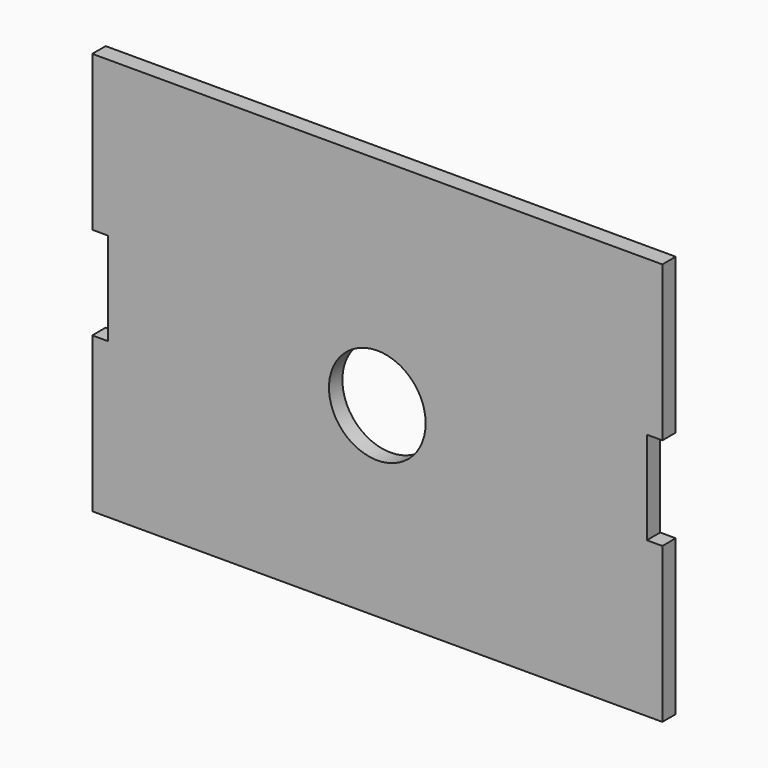
from build123d import *

# Parameters (mm, degrees)
F0_R     = 9.906
F1_DEPTH = 3.429


with BuildPart() as f1:
    # F0 (on Front) → F1 (new body)
    with BuildSketch(Plane.XZ):
        Polygon((422.30863, 303.458194), (422.30863, 271.708194), (539.14863, 271.708194), (539.14863, 303.458194), (535.97363, 303.458194), (535.97363, 322.508194), (539.14863, 322.508194), (539.14863, 354.258194), (422.30863, 354.258194), (422.30863, 322.508194), (425.48363, 322.508194), (425.48363, 303.458194), align=None)
        with Locations((480.72863, 309.808194)):
            Circle(F0_R, mode=Mode.SUBTRACT)
    extrude(amount=F1_DEPTH)


solid = f1.part
